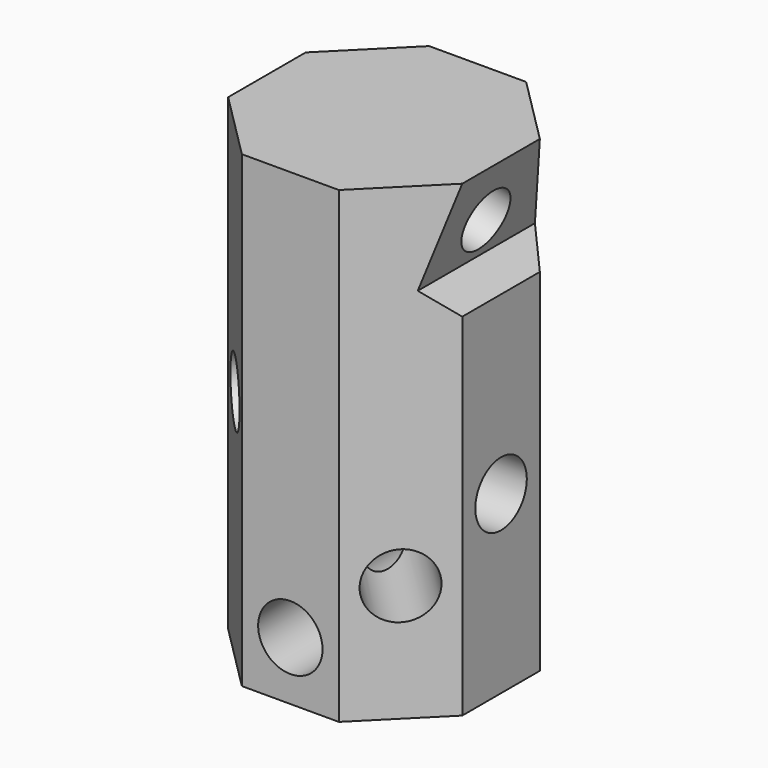
from build123d import *

# Parameters (mm, degrees)
F1_DEPTH  = 203.2
F2_R      = 13.97
F3_DEPTH  = 101.601
F4_R      = 13.97
F5_DEPTH  = 101.6
F6_R      = 13.97
F7_DEPTH  = 101.601
F8_R      = 13.97
F9_DEPTH  = 122.64304911
F11_DEPTH = 101.6010001
F12_R     = 12.7
F13_DEPTH = 25.4
F15_DEPTH = 122.64304911
F16_R     = 12.7
F17_DEPTH = 25.4


with BuildPart() as f1:
    # F0 (on Top) → F1 (new body)
    with BuildSketch(Plane.XY):
        Polygon((-21.0420489686, -50.8), (21.0420489686, -50.8), (50.8, -21.0420489686), (50.8, 21.0420489686), (21.0420489686, 50.8), (-21.0420489686, 50.8), (-50.8, 21.0420489686), (-50.8, -21.0420489686), align=None)
    extrude(amount=F1_DEPTH)

    # F2 (on face) → F3 (cut, through all)
    with BuildSketch(Plane.XZ.offset(50.8)):
        with Locations((0, 25.4)):
            Circle(F2_R)
    extrude(amount=-F3_DEPTH, mode=Mode.SUBTRACT)

    # F4 (on face) → F5 (cut)
    with BuildSketch(Plane(origin=(35.9210244843, -35.9210244843, 0), x_dir=(0.7071067812, 0.7071067812, 0), z_dir=(0.7071067812, -0.7071067812, 0))):
        with Locations((0, 50.8)):
            Circle(F4_R)
    extrude(amount=-F5_DEPTH, mode=Mode.SUBTRACT)

    # F6 (on face) → F7 (cut, through all)
    with BuildSketch(Plane.YZ.offset(50.8)):
        with Locations((0, 76.2)):
            Circle(F6_R)
    extrude(amount=-F7_DEPTH, mode=Mode.SUBTRACT)

    # F8 (on face) → F9 (cut, through all)
    with BuildSketch(Plane(origin=(35.9210244843, 35.9210244843, 0), x_dir=(-0.7071067812, 0.7071067812, 0), z_dir=(0.7071067812, 0.7071067812, 0))):
        with Locations((0, 101.6)):
            Circle(F8_R)
    extrude(amount=-F9_DEPTH, mode=Mode.SUBTRACT)

    # F10 (on face) → F11 (cut, through all)
    with BuildSketch(Plane.XZ.offset(50.8)):
        Polygon((50.8, 152.4), (50.8, 203.2), (40.0646968374, 163.1353031626), align=None)
    extrude(amount=-F11_DEPTH, mode=Mode.SUBTRACT)

    # F12 (on face) → F13 (cut)
    with BuildSketch(Plane(origin=(-3.4029547439, 0, 0.9118189755), x_dir=(0, 1, 0), z_dir=(0.9659258263, 0, -0.2588190451))):
        with Locations((0, 184.0241353931)):
            Circle(F12_R)
    extrude(amount=-F13_DEPTH, mode=Mode.SUBTRACT)

    # F14 (on face) → F15 (cut, through all)
    with BuildSketch(Plane(origin=(35.9210244843, 35.9210244843, 0), x_dir=(-0.7071067812, 0.7071067812, 0), z_dir=(0.7071067812, 0.7071067812, 0))):
        Polygon((50.8, 152.4), (50.8, 203.2), (42.1126883595, 153.931807432), align=None)
    extrude(amount=-F15_DEPTH, mode=Mode.SUBTRACT)

    # F16 (on face) → F17 (cut)
    with BuildSketch(Plane(origin=(-10.2664451766, 10.2664451766, -2.5600819123), x_dir=(-0.6756735354, -0.717688543, -0.1684886606), z_dir=(-0.6963642403, 0.6963642403, -0.1736481777))):
        with Locations((-31.4004860543, 180.8281922458)):
            Circle(F16_R)
    extrude(amount=-F17_DEPTH, mode=Mode.SUBTRACT)


solid = f1.part
